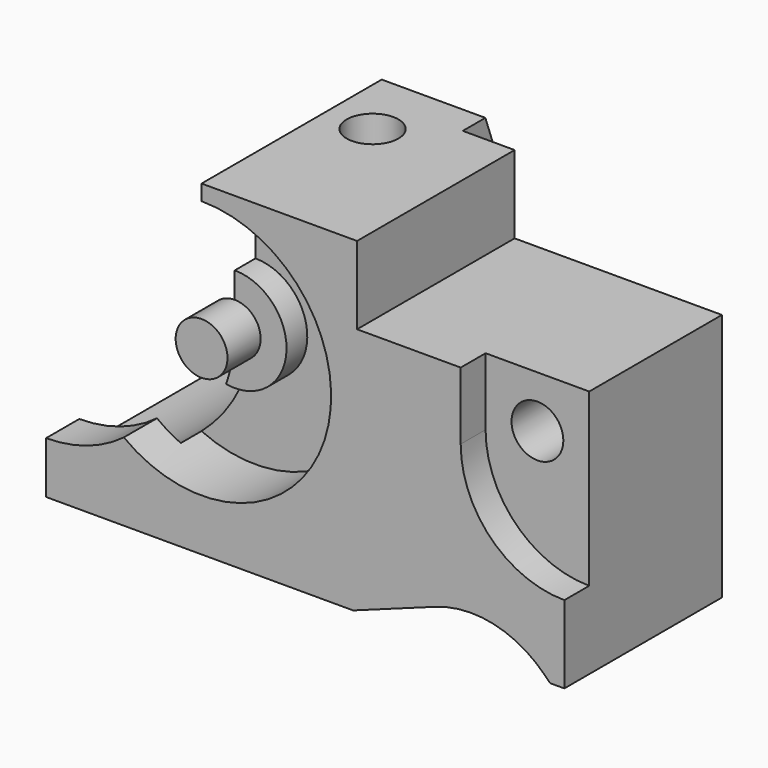
from build123d import *

# Parameters (mm, degrees)
F0_W      = 100
F0_H      = 63
F1_DEPTH  = 50
F3_DEPTH  = 6
F4_DEPTH  = 50
F5_DEPTH  = 50
F2_R      = 10
F2_R_2    = 5
F6_DEPTH  = 8
F2_R_3    = 25
F7_DEPTH  = 13
F8_W      = 10
F8_H      = 12
F9_DEPTH  = 63
F10_W     = 40
F10_H     = 12
F11_DEPTH = 63
F12_R     = 5
F13_DEPTH = 50
F15_DEPTH = 50
F16_DEPTH = 42
F17_DEPTH = 42
F18_W     = 30
F18_H     = 8
F19_DEPTH = 11.4
F21_DEPTH = 100
F22_R     = 5
F23_DEPTH = 63


with BuildPart() as f1:
    # F0 (on Front) → F1 (new body)
    with BuildSketch(Plane.XZ):
        with Locations((50, 31.5)):
            Rectangle(F0_W, F0_H)
    extrude(amount=F1_DEPTH)

    # F2 (on face) → F3 (cut)
    with BuildSketch(Plane.XZ.offset(50)):
        with BuildLine():
            ThreePointArc((80, 35), (85.8578643763, 20.8578643763), (100, 15))
            Line((100, 15), (100, 48))
            Line((100, 48), (80, 48))
            Line((80, 48), (80, 35))
        make_face()
    extrude(amount=-F3_DEPTH, mode=Mode.SUBTRACT)

    # F2 (on face) → F4 (cut)
    with BuildSketch(Plane.XZ.offset(50)):
        Polygon((100, 63), (60, 63), (60, 48), (80, 48), (100, 48), align=None)
    extrude(amount=-F4_DEPTH, mode=Mode.SUBTRACT)

    # F2 (on face) → F5 (cut)
    with BuildSketch(Plane.XZ.offset(50)):
        with BuildLine():
            Line((75.1384166813, 5.7840544194), (59.246857771, 0))
            Line((59.246857771, 0), (97.253292799, 0))
            Line((97.253292799, 0), (96.1209551715, 1.1323376275))
            ThreePointArc((96.1209551715, 1.1323376275), (86.3076118266, 6.5161221461), (75.1384166813, 5.7840544194))
        make_face()
    extrude(amount=-F5_DEPTH, mode=Mode.SUBTRACT)

    # F2 (on face) → F6 (cut)
    with BuildSketch(Plane.XZ.offset(50)):
        with Locations((30, 35)):
            Circle(F2_R)
        with Locations((30, 35)):
            Circle(F2_R_2, mode=Mode.SUBTRACT)
    extrude(amount=-F6_DEPTH, mode=Mode.SUBTRACT)

    # F2 (on face) → F7 (cut)
    with BuildSketch(Plane.XZ.offset(50)):
        with Locations((30, 35)):
            Circle(F2_R_3)
        with Locations((30, 35)):
            Circle(F2_R, mode=Mode.SUBTRACT)
    extrude(amount=-F7_DEPTH, mode=Mode.SUBTRACT)

    # F8 (on face) → F9 (cut)
    with BuildSketch(Plane.XY.offset(63)):
        with Locations((55, -6)):
            Rectangle(F8_W, F8_H)
    extrude(amount=-F9_DEPTH, mode=Mode.SUBTRACT)

    # F10 (on face) → F11 (cut)
    with BuildSketch(Plane.XY.offset(48)):
        with Locations((80, -6)):
            Rectangle(F10_W, F10_H)
    extrude(amount=-F11_DEPTH, mode=Mode.SUBTRACT)

    # F12 (on face) → F13 (cut)
    with BuildSketch(Plane.XZ.offset(44)):
        with Locations((90, 38.0427613854)):
            Circle(F12_R)
    extrude(amount=-F13_DEPTH, mode=Mode.SUBTRACT)

    # F14 (on face) → F15 (cut)
    with BuildSketch(Plane(origin=(0, 0, 0), x_dir=(-1, 0, 0), z_dir=(0, 1, 0))):
        with BuildLine():
            Line((0, 10), (0, 60))
            ThreePointArc((0, 60), (-25, 35), (0, 10))
        make_face()
        with BuildLine():
            ThreePointArc((0, 10), (17.6776695297, 17.3223304703), (25, 35))
            ThreePointArc((25, 35), (17.6776695297, 52.6776695297), (0, 60))
            Line((0, 60), (0, 10))
        make_face()
    extrude(amount=-F15_DEPTH, mode=Mode.SUBTRACT)

    # F14 (on face) → F16 (cut)
    with BuildSketch(Plane(origin=(0, 0, 0), x_dir=(-1, 0, 0), z_dir=(0, 1, 0))):
        with BuildLine():
            ThreePointArc((0, 10), (-25, 35), (0, 60))
            Line((0, 60), (0, 63))
            Line((0, 63), (-10.7703296143, 63))
            ThreePointArc((-10.7703296143, 63), (-24.7296369608, 51.9836702684), (-30, 35))
            ThreePointArc((-30, 35), (-21.2132034356, 13.7867965644), (0, 5))
            Line((0, 5), (0, 10))
        make_face()
        with BuildLine():
            ThreePointArc((0, 60), (17.6776695297, 52.6776695297), (25, 35))
            ThreePointArc((25, 35), (17.6776695297, 17.3223304703), (0, 10))
            Line((0, 10), (0, 5))
            ThreePointArc((0, 5), (21.2132034356, 13.7867965644), (30, 35))
            ThreePointArc((30, 35), (16.9836702684, 59.7296369608), (-10.7703296143, 63))
            Line((-10.7703296143, 63), (0, 63))
            Line((0, 63), (0, 60))
        make_face()
    extrude(amount=F16_DEPTH, mode=Mode.SUBTRACT)

    # F14 (on face) → F17 (cut)
    with BuildSketch(Plane(origin=(0, 0, 0), x_dir=(-1, 0, 0), z_dir=(0, 1, 0))):
        with BuildLine():
            ThreePointArc((0, 10), (-25, 35), (0, 60))
            Line((0, 60), (0, 63))
            Line((0, 63), (-10.7703296143, 63))
            ThreePointArc((-10.7703296143, 63), (-24.7296369608, 51.9836702684), (-30, 35))
            ThreePointArc((-30, 35), (-21.2132034356, 13.7867965644), (0, 5))
            Line((0, 5), (0, 10))
        make_face()
        with BuildLine():
            ThreePointArc((0, 60), (17.6776695297, 52.6776695297), (25, 35))
            ThreePointArc((25, 35), (17.6776695297, 17.3223304703), (0, 10))
            Line((0, 10), (0, 5))
            ThreePointArc((0, 5), (21.2132034356, 13.7867965644), (30, 35))
            ThreePointArc((30, 35), (16.9836702684, 59.7296369608), (-10.7703296143, 63))
            Line((-10.7703296143, 63), (0, 63))
            Line((0, 63), (0, 60))
        make_face()
        with BuildLine():
            ThreePointArc((-30, 35), (-24.7296369608, 51.9836702684), (-10.7703296143, 63))
            Line((-10.7703296143, 63), (-30, 63))
            Line((-30, 63), (-30, 35))
        make_face()
    extrude(amount=-F17_DEPTH, mode=Mode.SUBTRACT)

    # F18 (on face) → F19 (cut)
    with BuildSketch(Plane.XY.offset(63)):
        with Locations((15, -46)):
            Rectangle(F18_W, F18_H)
    extrude(amount=-F19_DEPTH, mode=Mode.SUBTRACT)

    # F20 (on face) → F21 (cut)
    with BuildSketch(Plane(origin=(30, 0, 0), x_dir=(0, -1, 0), z_dir=(-1, 0, 0))):
        Polygon((6.5514642168, 63), (0, 63), (0, 45), align=None)
    extrude(amount=-F21_DEPTH, mode=Mode.SUBTRACT)

    # F22 (on face) → F23 (cut)
    with BuildSketch(Plane.XY.offset(63)):
        with Locations((39, -20)):
            Circle(F22_R)
    extrude(amount=-F23_DEPTH, mode=Mode.SUBTRACT)


solid = f1.part
